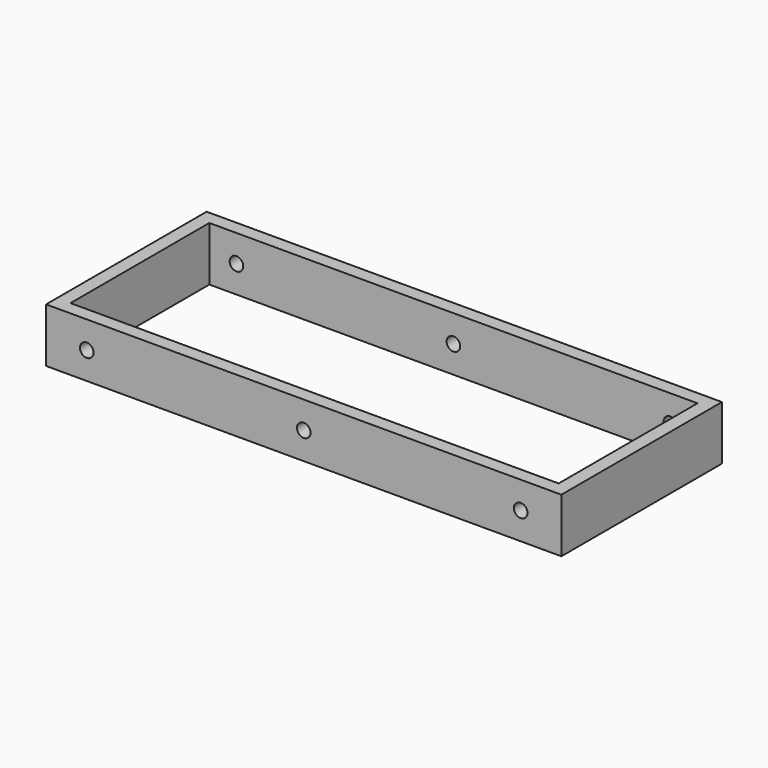
from build123d import *

# Parameters (mm, degrees)
F0_R     = 3.175
F1_DEPTH = 6.35
F2_W     = 6.35
F2_H     = 25.4
F3_DEPTH = 81.28
F4_W     = 234.95
F4_H     = 25.4
F4_W_2   = 6.35
F5_DEPTH = 6.35
F6_R     = 3.175
F7_DEPTH = 508


with BuildPart() as f1:
    # F0 (on Front) → F1 (new body)
    with BuildSketch(Plane.XZ):
        Polygon((0, 12.7), (0, 0), (241.3, 0), (241.3, 12.7), (241.3, 25.4), (120.65, 25.4), (0, 25.4), align=None)
        with BuildLine():
            ThreePointArc((22.225, 12.7), (19.05, 9.525), (15.875, 12.7))
            ThreePointArc((15.875, 12.7), (19.05, 15.875), (22.225, 12.7))
        make_face(mode=Mode.SUBTRACT)
        with BuildLine():
            ThreePointArc((123.825, 12.7), (118.404936, 10.454936), (120.65, 15.875))
            ThreePointArc((120.65, 15.875), (122.895064, 14.945064), (123.825, 12.7))
        make_face(mode=Mode.SUBTRACT)
        with Locations((222.25, 12.7)):
            Circle(F0_R, mode=Mode.SUBTRACT)
    extrude(amount=F1_DEPTH)

    # F2 (on face) → F3 (join)
    with BuildSketch(Plane.XZ.offset(6.35)):
        with Locations((3.175, 12.7)):
            Rectangle(F2_W, F2_H)
        with Locations((238.125, 12.7)):
            Rectangle(F2_W, F2_H)
    extrude(amount=F3_DEPTH)

    # F4 (on face) → F5 (join)
    with BuildSketch(Plane.XZ.offset(87.63)):
        with Locations((123.825, 12.7)):
            Rectangle(F4_W, F4_H)
        with Locations((3.175, 12.7)):
            Rectangle(F4_W_2, F4_H)
    extrude(amount=F5_DEPTH)

    # F6 (on face) → F7 (cut)
    with BuildSketch(Plane.XZ.offset(6.35)):
        with Locations((222.25, 12.7)):
            Circle(F6_R)
        with Locations((120.65, 12.7)):
            Circle(F6_R)
        with Locations((19.05, 12.7)):
            Circle(F6_R)
    extrude(amount=F7_DEPTH, mode=Mode.SUBTRACT)


solid = f1.part
